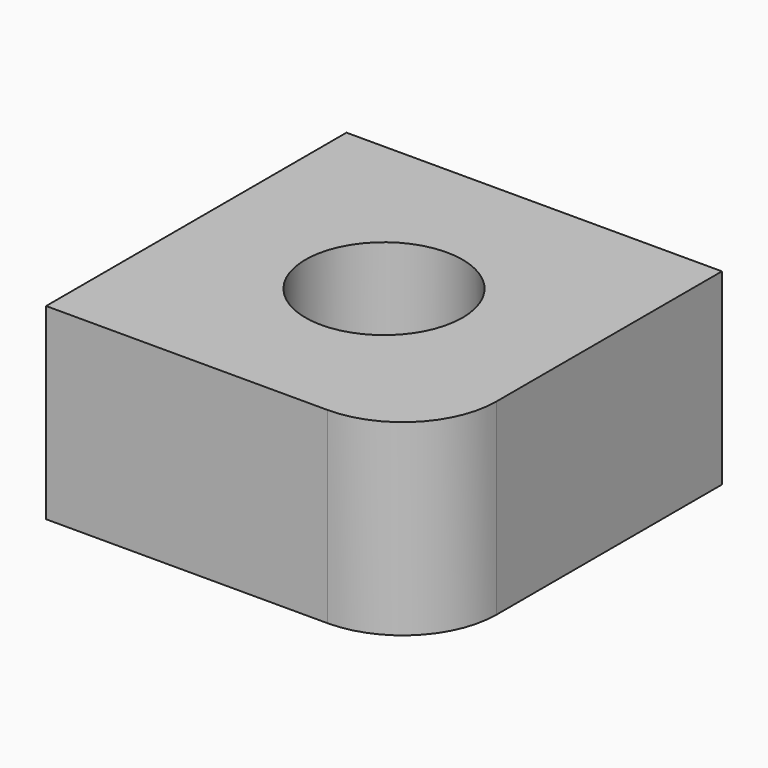
from build123d import *

# Parameters (mm, degrees)
F0_R     = 4.185599
F1_DEPTH = 10


with BuildPart() as f1:
    # F0 (on Top) → F1 (new body)
    with BuildSketch(Plane.XY):
        with BuildLine():
            Line((0.248153, 16.553758), (-19.751847, 16.553758))
            Line((-19.751847, 16.553758), (-19.751847, -3.446242))
            Line((-19.751847, -3.446242), (-4.751847, -3.446242))
            ThreePointArc((-4.751847, -3.446242), (-1.216313, -1.981775), (0.248153, 1.553758))
            Line((0.248153, 1.553758), (0.248153, 16.553758))
        make_face()
        with Locations((-9.751847, 6.553758)):
            Circle(F0_R, mode=Mode.SUBTRACT)
    extrude(amount=F1_DEPTH)


solid = f1.part
